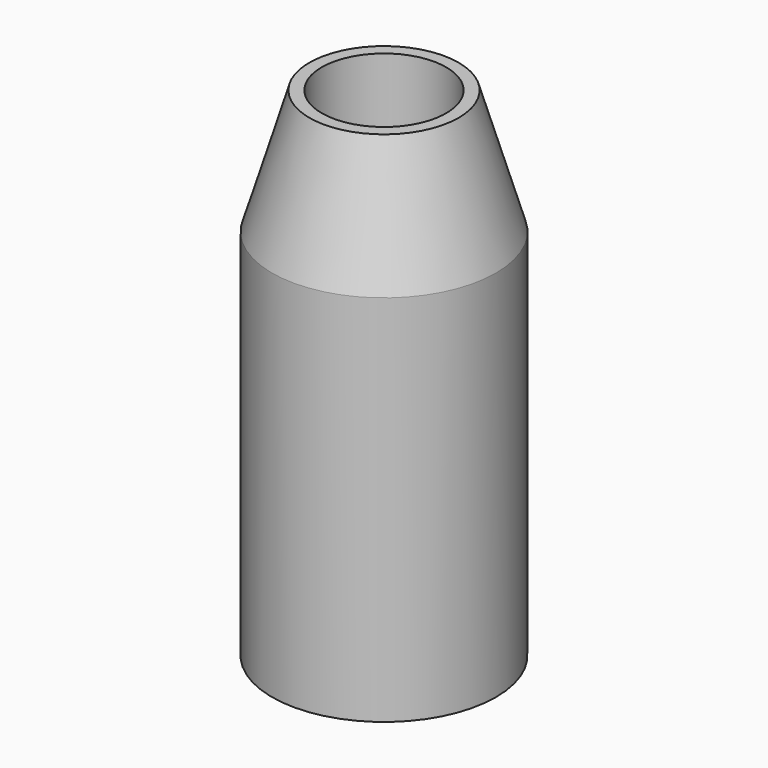
from build123d import *

# Parameters (mm, degrees)
F0_R     = 4.5
F1_DEPTH = 20
F2_SIZE2 = 1.5
F2_SIZE  = 5
F3_D     = 5


with BuildPart() as f1:
    # F0 (on Top) → F1 (new body)
    with BuildSketch(Plane.XY):
        Circle(F0_R)
    extrude(amount=F1_DEPTH)

    # F2
    f2_edges = [f1.edges().sort_by_distance(p)[0] for p in [
        (-4.5, 0, 20),
    ]]
    f2_side = f1.faces().sort_by_distance((-4.5, 0, 10))[0]
    chamfer(f2_edges, length=F2_SIZE, length2=F2_SIZE2, reference=f2_side)

    # F3 (through all)
    with Locations(Plane(origin=(0, 0, 0), x_dir=(1, 0, 0), z_dir=(0, 0, -1))):
        with Locations((0, 0)):
            Hole(F3_D / 2)


solid = f1.part
